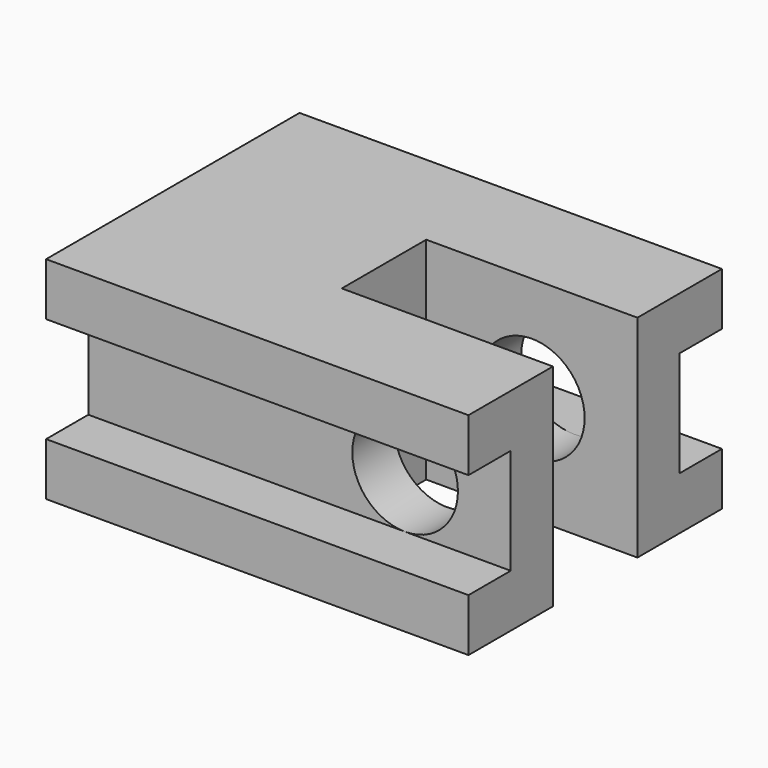
from build123d import *

# Parameters (mm, degrees)
F0_R     = 1.778
F1_DEPTH = 12.7
F2_R     = 3.175
F3_DEPTH = 12.7
F4_W     = 12.7
F4_H     = 6.35
F5_DEPTH = 12.7
F6_R     = 2.921
F7_DEPTH = 4.064
F8_R     = 3.175
F9_DEPTH = 6.35


with BuildPart() as f1:
    # F0 (on Right) → F1 (new body, symmetric)
    with BuildSketch(Plane.YZ):
        Polygon((-6.35, 3.175), (-6.35, -3.175), (-9.525, -3.175), (-9.525, -6.35), (9.525, -6.35), (9.525, -3.175), (6.35, -3.175), (6.35, 3.175), (9.525, 3.175), (9.525, 6.35), (-9.525, 6.35), (-9.525, 3.175), align=None)
        Circle(F0_R, mode=Mode.SUBTRACT)
    extrude(amount=F1_DEPTH, both=True)

    # F2 (on Front) → F3 (cut, symmetric)
    with BuildSketch(Plane.XZ):
        with Locations((6.35, 0)):
            Circle(F2_R)
    extrude(amount=F3_DEPTH, both=True, mode=Mode.SUBTRACT)

    # F4 (on Top) → F5 (cut, symmetric)
    with BuildSketch(Plane.XY):
        with Locations((6.35, 0)):
            Rectangle(F4_W, F4_H)
    extrude(amount=F5_DEPTH, both=True, mode=Mode.SUBTRACT)

    # F6 (on face) → F7 (cut)
    with BuildSketch(Plane.YZ):
        Circle(F6_R)
    extrude(amount=-F7_DEPTH, mode=Mode.SUBTRACT)

    # F8 (on face) → F9 (cut)
    with BuildSketch(Plane(origin=(-12.7, 0, 0), x_dir=(0, -1, 0), z_dir=(-1, 0, 0))):
        Circle(F8_R)
    extrude(amount=-F9_DEPTH, mode=Mode.SUBTRACT)


solid = f1.part
